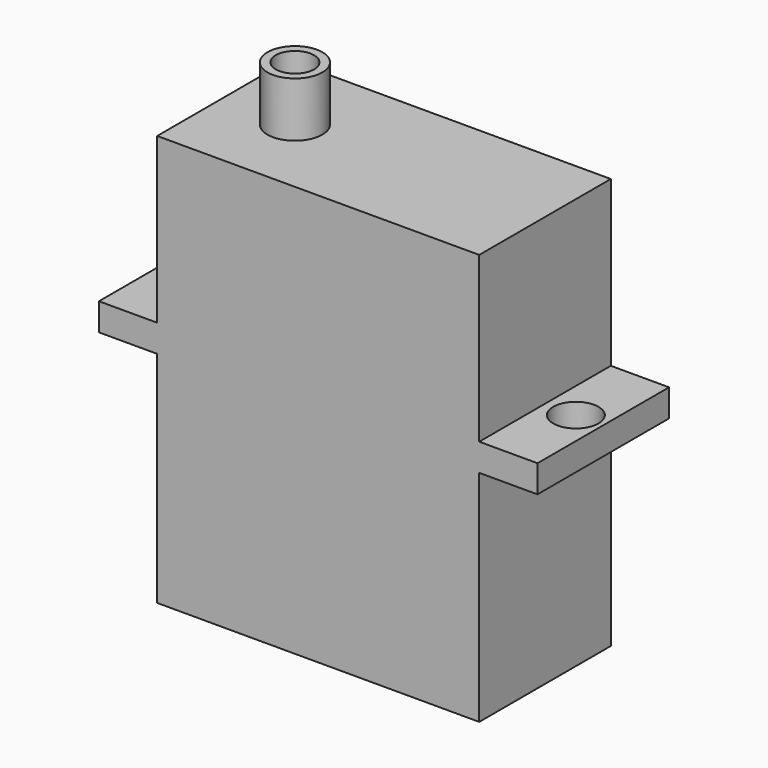
from build123d import *

# Parameters (mm, degrees)
PAD019_DEPTH      = 12
SKETCH028_R       = 1.65
POCKET008_DEPTH   = 50
CYLINDER_R        = 2
CYLINDER_DEPTH    = 34
CYLINDER001_R     = 1.4
CYLINDER001_DEPTH = 34


with BuildPart() as part:
    # Sketch027 → Pad019 (new body)
    with BuildSketch(Plane.XZ):
        Polygon((0, 0), (23.5, 0), (23.5, 16), (27.75, 16), (27.75, 18), (23.5, 18), (23.5, 30), (0, 30), (0, 18), (-4.25, 18), (-4.25, 16), (0, 16), align=None)
    extrude(amount=PAD019_DEPTH)

    # Sketch028 → Pocket008 (cut)
    with BuildSketch(Plane.XY):
        with Locations((-2.25, -6)):
            Circle(SKETCH028_R)
        with Locations((25.75, -6)):
            Circle(SKETCH028_R)
    extrude(amount=POCKET008_DEPTH, mode=Mode.SUBTRACT)

    # Cylinder → Cylinder (join)
    with BuildSketch(Plane(origin=(5.25, -6, 0), x_dir=(1, 0, 0), z_dir=(0, 0, 1))):
        Circle(CYLINDER_R)
    extrude(amount=CYLINDER_DEPTH)

    # Cylinder001 → Cylinder001 (cut)
    with BuildSketch(Plane(origin=(5.25, -6, 0), x_dir=(1, 0, 0), z_dir=(0, 0, 1))):
        Circle(CYLINDER001_R)
    extrude(amount=CYLINDER001_DEPTH, mode=Mode.SUBTRACT)


solid = part.part
